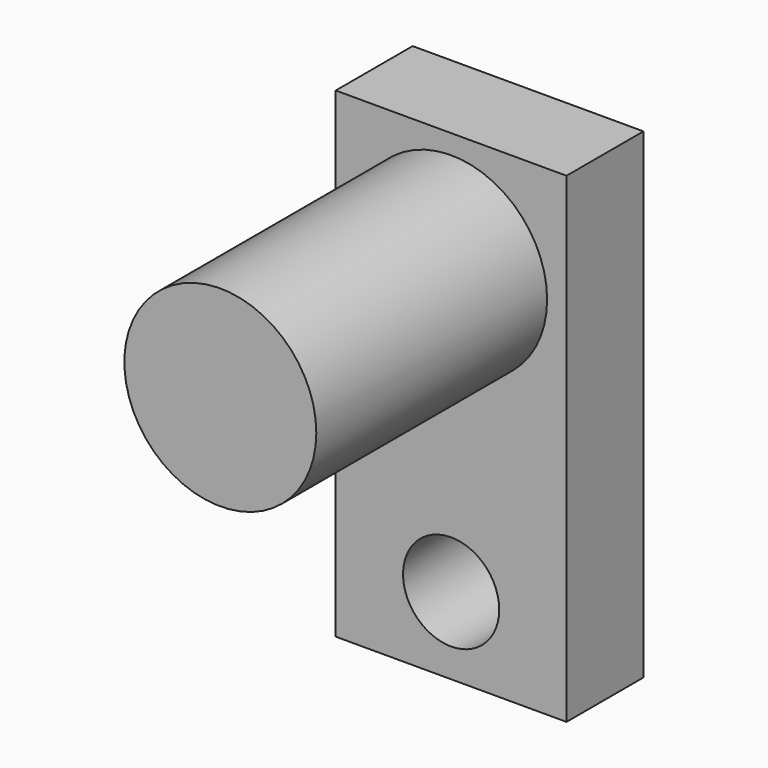
from build123d import *

# Parameters (mm, degrees)
F0_W     = 12
F0_H     = 25
F1_DEPTH = 5
F2_R     = 2.5
F3_DEPTH = 5.001
F4_R     = 4.99
F5_DEPTH = 15


with BuildPart() as f1:
    # F0 (on Front) → F1 (new body)
    with BuildSketch(Plane.XZ):
        with Locations((6, 12.5)):
            Rectangle(F0_W, F0_H)
    extrude(amount=F1_DEPTH)

    # F2 (on face) → F3 (cut, through all)
    with BuildSketch(Plane.XZ.offset(5)):
        with Locations((6, 4)):
            Circle(F2_R)
    extrude(amount=-F3_DEPTH, mode=Mode.SUBTRACT)

    # F4 (on face) → F5 (join)
    with BuildSketch(Plane.XZ.offset(5)):
        with Locations((6, 19)):
            Circle(F4_R)
    extrude(amount=F5_DEPTH)


solid = f1.part
